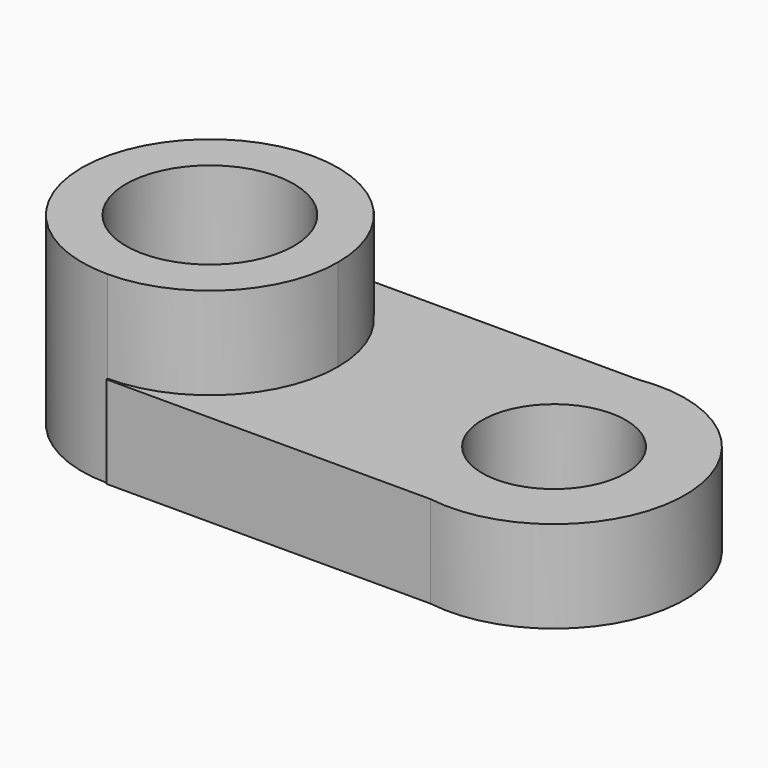
from build123d import *

# Parameters (mm, degrees)
F0_R     = 23.177151
F1_DEPTH = 50.8
F0_R_2   = 19.827274
F2_DEPTH = 25.4


with BuildPart() as f1:
    # F0 (on Top) → F1 (new body)
    with BuildSketch(Plane.XY):
        with BuildLine():
            ThreePointArc((-12.136872, 0), (-22.493863, 25.003987), (-47.49785, 35.360978))
            ThreePointArc((-47.49785, 35.360978), (-82.858828, 0), (-47.49785, -35.360978))
            ThreePointArc((-47.49785, -35.360978), (-22.493863, -25.003987), (-12.136872, 0))
        make_face()
        with Locations((-47.49785, 0)):
            Circle(F0_R, mode=Mode.SUBTRACT)
    extrude(amount=F1_DEPTH)

    # F0 (on Top) → F2 (join)
    with BuildSketch(Plane.XY):
        with BuildLine():
            Line((41.95518, 35.769369), (-47.49785, 35.769369))
            Line((-47.49785, 35.769369), (-47.49785, 35.360978))
            ThreePointArc((-47.49785, 35.360978), (-22.493863, 25.003987), (-12.136872, 0))
            ThreePointArc((-12.136872, 0), (-22.493863, -25.003987), (-47.49785, -35.360978))
            Line((-47.49785, -35.360978), (-47.49785, -35.769369))
            Line((-47.49785, -35.769369), (41.95518, -35.769369))
            ThreePointArc((41.95518, -35.769369), (83.694106, 0), (41.95518, 35.769369))
        make_face()
        with Locations((47.49785, 0)):
            Circle(F0_R_2, mode=Mode.SUBTRACT)
    extrude(amount=F2_DEPTH)


solid = f1.part
